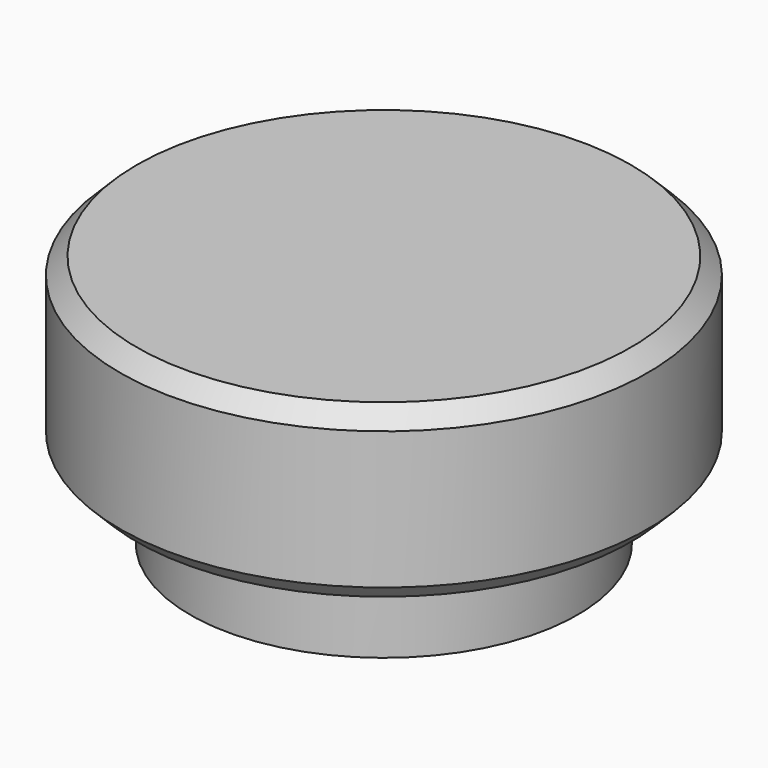
from build123d import *

# Parameters (mm, degrees)
SKETCH012_W     = 0.5
SKETCH012_H     = 5
POCKET002_DEPTH = 3
CHAMFER001_SIZE = 0.3


with BuildPart() as part:
    # Sketch011 → Revolution003 (revolve)
    with BuildSketch(Plane.XZ):
        Polygon((-3.45, 0), (-3.45, 1.452), (-4.699, 1.452), (-4.699, 4.5), (0, 4.5), (0, 3), (-1.15, 3), (-1.15, 0), (-2.15, 0), (-2.15, 3), (-2.95, 3), (-2.95, 0), align=None)
    revolve(axis=Axis((0, 0, 0), (0, 0, 1)))

    # Sketch012 → Pocket002 (cut)
    with BuildSketch(Plane.XY):
        Rectangle(SKETCH012_W, SKETCH012_H)
    extrude(amount=POCKET002_DEPTH, mode=Mode.SUBTRACT)

    # Chamfer001
    chamfer001_edges = [part.edges().sort_by_distance(p)[0] for p in [
        (4.699, 0, 4.5),
        (4.699, 0, 1.452),
        (1.15, 0, 0),
        (-0.897218, 0.719375, 0),
    ]]
    chamfer(chamfer001_edges, length=CHAMFER001_SIZE)


solid = part.part
